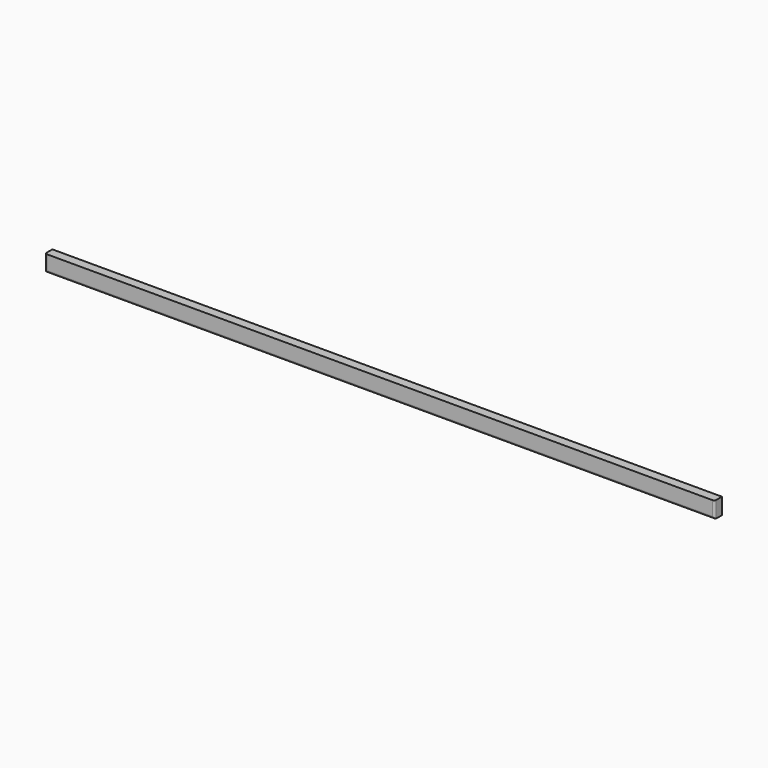
from build123d import *

# Parameters (mm, degrees)
F0_W     = 28.575
F0_H     = 50.8
F1_DEPTH = 2082.8
F2_R     = 6.35


with BuildPart() as f1:
    # F0 (on Right) → F1 (new body)
    with BuildSketch(Plane.YZ):
        Rectangle(F0_W, F0_H)
    extrude(amount=F1_DEPTH)

    # F2
    f2_edges = [f1.edges().sort_by_distance(p)[0] for p in [
        (0, -14.2875, 0),
        (1041.4, -14.2875, -25.4),
        (2082.8, -14.2875, 0),
    ]]
    fillet(f2_edges, radius=F2_R)


solid = f1.part
